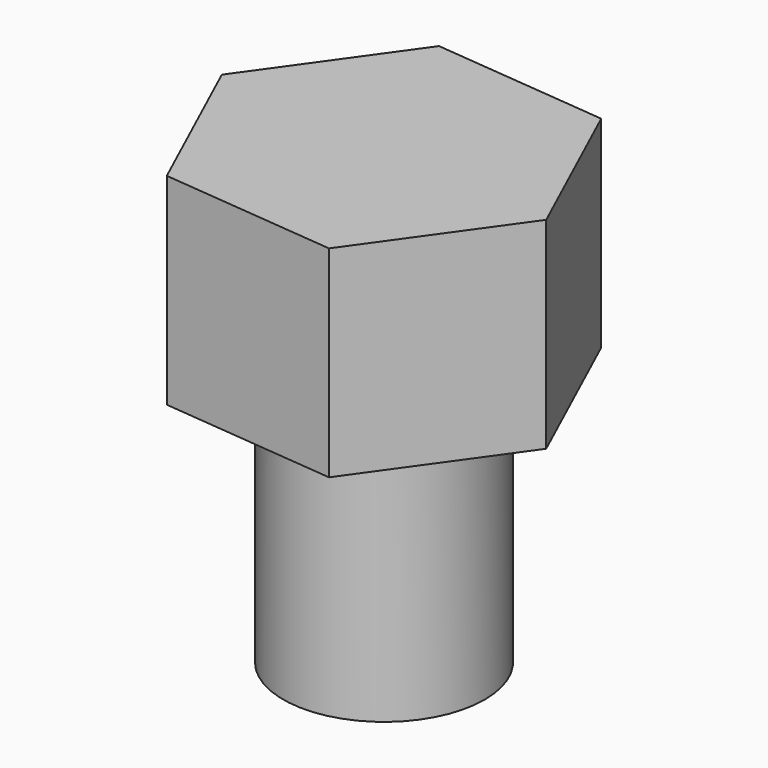
from build123d import *

# Parameters (mm, degrees)
F3_DEPTH = 8
F4_W     = 5
F4_H     = 80


with BuildPart() as f1:
    # F0 (on Front) → F1 (revolve)
    with BuildSketch(Plane.XZ):
        Polygon((4, 0), (4, 90), (0, 90), (0, 65), (0, 0), align=None)
    revolve(axis=Axis((0, 0, 32.5), (0, 0, -1)))

    # F2 (on face) → F3 (join)
    with BuildSketch(Plane.XY.offset(90)):
        Polygon((6.968457, -0.663784), (4.059082, 5.702969), (-2.909374, 6.366753), (-6.968457, 0.663784), (-4.059082, -5.702969), (2.909374, -6.366753), align=None)
    extrude(amount=F3_DEPTH)

    # F4 (on Front) → F5 (revolve, cut)
    with BuildSketch(Plane.XZ):
        with Locations((2.5, 40)):
            Rectangle(F4_W, F4_H)
    revolve(axis=Axis((0, 0, 40), (0, 0, -1)), mode=Mode.SUBTRACT)


solid = f1.part
